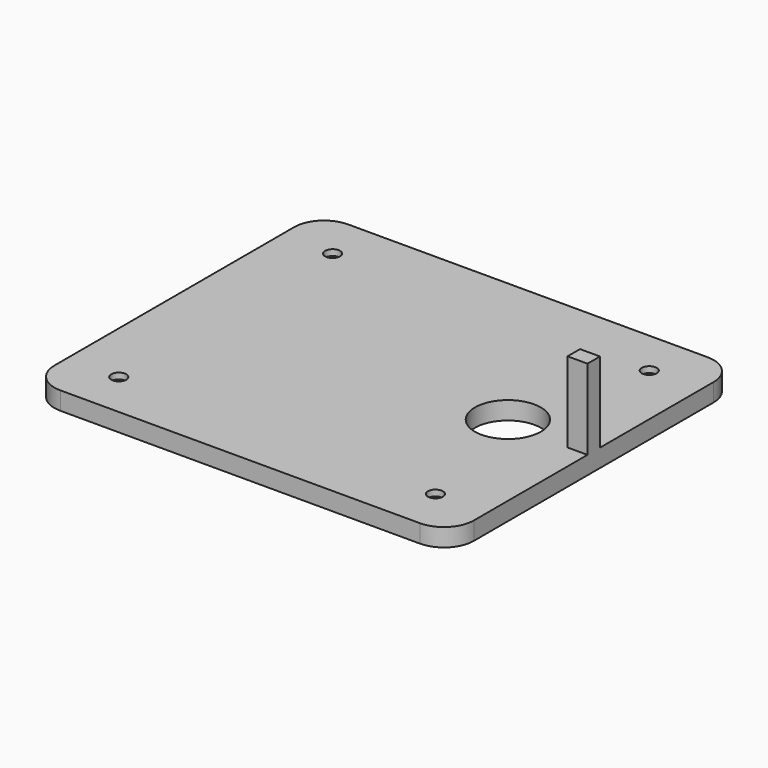
from build123d import *

# Parameters (mm, degrees)
F0_R     = 1.25
F0_R_2   = 5.5
F1_DEPTH = 3
F2_W     = 3.325
F2_H     = 2.6
F3_DEPTH = 16.4
F4_SIZE  = 2
F5_R     = 5


with BuildPart() as f1:
    # F0 (on Top) → F1 (new body)
    with BuildSketch(Plane.XY):
        with BuildLine():
            Line((17.074093, -19.419351), (17.074093, 9.280649))
            Line((17.074093, 9.280649), (13.749093, 9.280649))
            Line((13.749093, 9.280649), (13.749093, -4.019351))
            Line((13.749093, -4.019351), (3.249093, -4.019351))
            Line((3.249093, -4.019351), (3.249093, -5.947351))
            ThreePointArc((3.249093, -5.947351), (-0.850907, -10.047351), (-4.950907, -5.947351))
            Line((-4.950907, -5.947351), (-4.950907, -4.019351))
            Line((-4.950907, -4.019351), (-30.900907, -4.019351))
            Line((-30.900907, -4.019351), (-30.900907, -5.947351))
            ThreePointArc((-30.900907, -5.947351), (-35.000907, -10.047351), (-39.100907, -5.947351))
            Line((-39.100907, -5.947351), (-39.100907, -4.019351))
            Line((-39.100907, -4.019351), (-49.600907, -4.019351))
            Line((-49.600907, -4.019351), (-49.600907, 25.180649))
            Line((-49.600907, 25.180649), (-39.100907, 25.180649))
            Line((-39.100907, 25.180649), (-39.100907, 27.108649))
            ThreePointArc((-39.100907, 27.108649), (-35.000907, 31.208649), (-30.900907, 27.108649))
            Line((-30.900907, 27.108649), (-30.900907, 25.180649))
            Line((-30.900907, 25.180649), (-4.950907, 25.180649))
            Line((-4.950907, 25.180649), (-4.950907, 27.108649))
            ThreePointArc((-4.950907, 27.108649), (-0.850907, 31.208649), (3.249093, 27.108649))
            Line((3.249093, 27.108649), (3.249093, 25.180649))
            Line((3.249093, 25.180649), (13.749093, 25.180649))
            Line((13.749093, 25.180649), (13.749093, 11.880649))
            Line((13.749093, 11.880649), (17.074093, 11.880649))
            Line((17.074093, 11.880649), (17.074093, 40.580649))
            Line((17.074093, 40.580649), (-52.925907, 40.580649))
            Line((-52.925907, 40.580649), (-52.925907, -19.419351))
            Line((-52.925907, -19.419351), (17.074093, -19.419351))
        make_face()
        with Locations((-44.350907, -11.719351)):
            Circle(F0_R, mode=Mode.SUBTRACT)
        with Locations((8.499093, -11.719351)):
            Circle(F0_R, mode=Mode.SUBTRACT)
        with Locations((-44.350907, 32.880649)):
            Circle(F0_R, mode=Mode.SUBTRACT)
        with Locations((8.499093, 32.880649)):
            Circle(F0_R, mode=Mode.SUBTRACT)
        with BuildLine():
            Line((13.749093, -4.019351), (13.749093, 9.280649))
            Line((13.749093, 9.280649), (13.749093, 11.880649))
            Line((13.749093, 11.880649), (13.749093, 25.180649))
            Line((13.749093, 25.180649), (3.249093, 25.180649))
            Line((3.249093, 25.180649), (3.249093, 27.108649))
            ThreePointArc((3.249093, 27.108649), (-0.850907, 31.208649), (-4.950907, 27.108649))
            Line((-4.950907, 27.108649), (-4.950907, 25.180649))
            Line((-4.950907, 25.180649), (-30.900907, 25.180649))
            Line((-30.900907, 25.180649), (-30.900907, 27.108649))
            ThreePointArc((-30.900907, 27.108649), (-35.000907, 31.208649), (-39.100907, 27.108649))
            Line((-39.100907, 27.108649), (-39.100907, 25.180649))
            Line((-39.100907, 25.180649), (-49.600907, 25.180649))
            Line((-49.600907, 25.180649), (-49.600907, -4.019351))
            Line((-49.600907, -4.019351), (-39.100907, -4.019351))
            Line((-39.100907, -4.019351), (-39.100907, -5.947351))
            ThreePointArc((-39.100907, -5.947351), (-35.000907, -10.047351), (-30.900907, -5.947351))
            Line((-30.900907, -5.947351), (-30.900907, -4.019351))
            Line((-30.900907, -4.019351), (-4.950907, -4.019351))
            Line((-4.950907, -4.019351), (-4.950907, -5.947351))
            ThreePointArc((-4.950907, -5.947351), (-0.850907, -10.047351), (3.249093, -5.947351))
            Line((3.249093, -5.947351), (3.249093, -4.019351))
            Line((3.249093, -4.019351), (13.749093, -4.019351))
        make_face()
        with Locations((2.749093, 10.580649)):
            Circle(F0_R_2, mode=Mode.SUBTRACT)
    extrude(amount=F1_DEPTH)

    # F2 (on face) → F3 (join)
    with BuildSketch(Plane(origin=(0, 0, 0), x_dir=(1, 0, 0), z_dir=(0, 0, -1))):
        with Locations((15.411593, -10.580649)):
            Rectangle(F2_W, F2_H)
    extrude(amount=-F3_DEPTH)

    # F4
    f4_edges = [f1.edges().sort_by_distance(p)[0] for p in [
        (-45.600907, -11.719351, 0),
        (-45.600907, 32.880649, 0),
        (7.249093, 32.880649, 0),
        (7.249093, -11.719351, 0),
    ]]
    chamfer(f4_edges, length=F4_SIZE)

    # F5
    f5_edges = [f1.edges().sort_by_distance(p)[0] for p in [
        (-52.925907, -19.419351, 1.5),
        (17.074093, -19.419351, 1.5),
        (17.074093, 40.580649, 1.5),
        (-52.925907, 40.580649, 1.5),
    ]]
    fillet(f5_edges, radius=F5_R)


solid = f1.part
